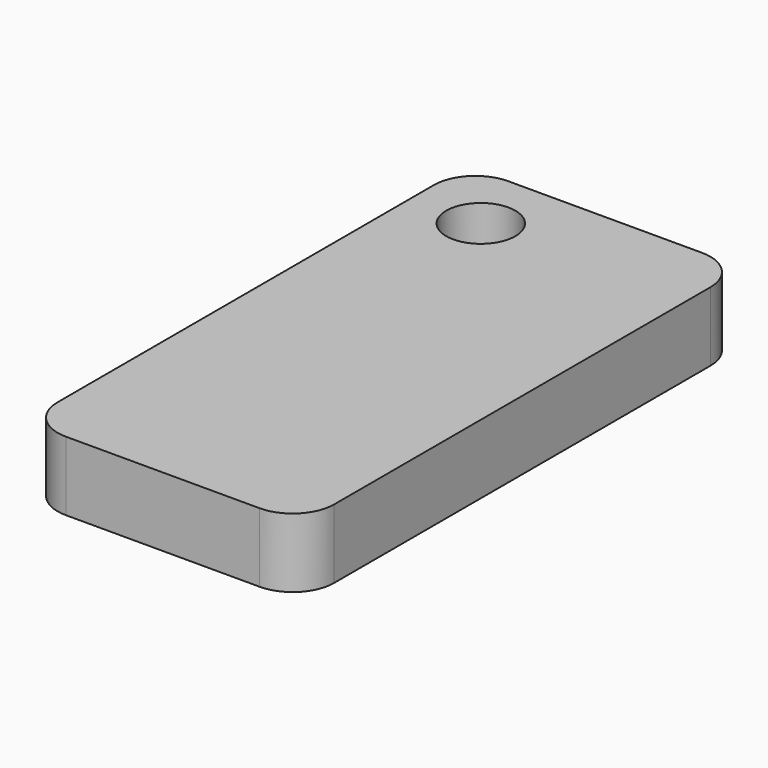
from build123d import *

# Parameters (mm, degrees)
F0_W     = 25.4
F0_H     = 50.8
F1_DEPTH = 6.35
F2_R     = 3.175
F3_DEPTH = 25.4
F4_R     = 3.81


with BuildPart() as f1:
    # F0 (on Top) → F1 (new body)
    with BuildSketch(Plane.XY):
        Rectangle(F0_W, F0_H)
    extrude(amount=F1_DEPTH)

    # F2 (on face) → F3 (cut)
    with BuildSketch(Plane.XY.offset(6.35)):
        with Locations((-6.35, 19.05)):
            Circle(F2_R)
    extrude(amount=-F3_DEPTH, mode=Mode.SUBTRACT)

    # F4
    f4_edges = [f1.edges().sort_by_distance(p)[0] for p in [
        (-12.7, 25.4, 3.175),
        (12.7, 25.4, 3.175),
        (-12.7, -25.4, 3.175),
        (12.7, -25.4, 3.175),
    ]]
    fillet(f4_edges, radius=F4_R)


solid = f1.part
